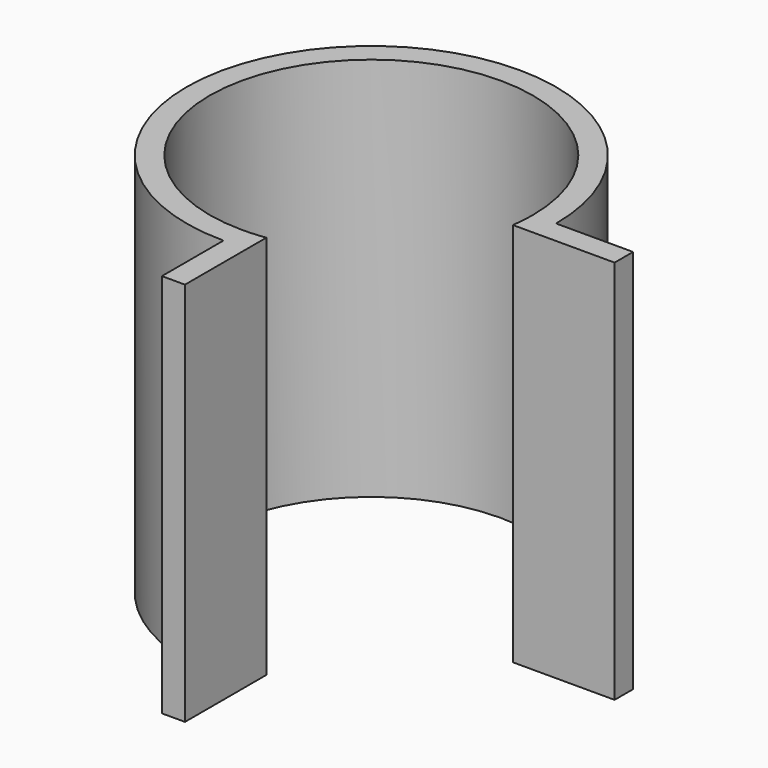
from build123d import *

# Parameters (mm, degrees)
F1_DEPTH = 25


with BuildPart() as f1:
    # F0 (on Top) → F1 (new body)
    with BuildSketch(Plane.XY):
        with BuildLine():
            ThreePointArc((0, -10.5), (-7.4246212025, 7.4246212025), (10.5, 0))
            Line((10.5, 0), (12, 0))
            ThreePointArc((12, 0), (-8.4852813742, 8.4852813742), (0, -12))
            Line((0, -12), (0, -10.5))
        make_face()
        with BuildLine():
            Line((12, 0), (10.5, 0))
            ThreePointArc((10.5, 0), (10.473041604, -0.7519305564), (10.3923048454, -1.5))
            Line((10.3923048454, -1.5), (11.9058808998, -1.5))
            ThreePointArc((11.9058808998, -1.5), (11.9764471108, -0.7514749505), (12, 0))
        make_face()
        with BuildLine():
            Line((17, 0), (12, 0))
            ThreePointArc((12, 0), (11.9764471108, -0.7514749505), (11.9058808998, -1.5))
            Line((11.9058808998, -1.5), (17, -1.5))
            Line((17, -1.5), (17, 0))
        make_face()
        with BuildLine():
            ThreePointArc((1.5, -10.3923048454), (0.7519305564, -10.473041604), (0, -10.5))
            Line((0, -10.5), (0, -12))
            ThreePointArc((0, -12), (0.7514749505, -11.9764471108), (1.5, -11.9058808998))
            Line((1.5, -11.9058808998), (1.5, -10.3923048454))
        make_face()
        with BuildLine():
            ThreePointArc((1.5, -11.9058808998), (0.7514749505, -11.9764471108), (0, -12))
            Line((0, -12), (0, -17))
            Line((0, -17), (1.5, -17))
            Line((1.5, -17), (1.5, -11.9058808998))
        make_face()
    extrude(amount=F1_DEPTH)


solid = f1.part
